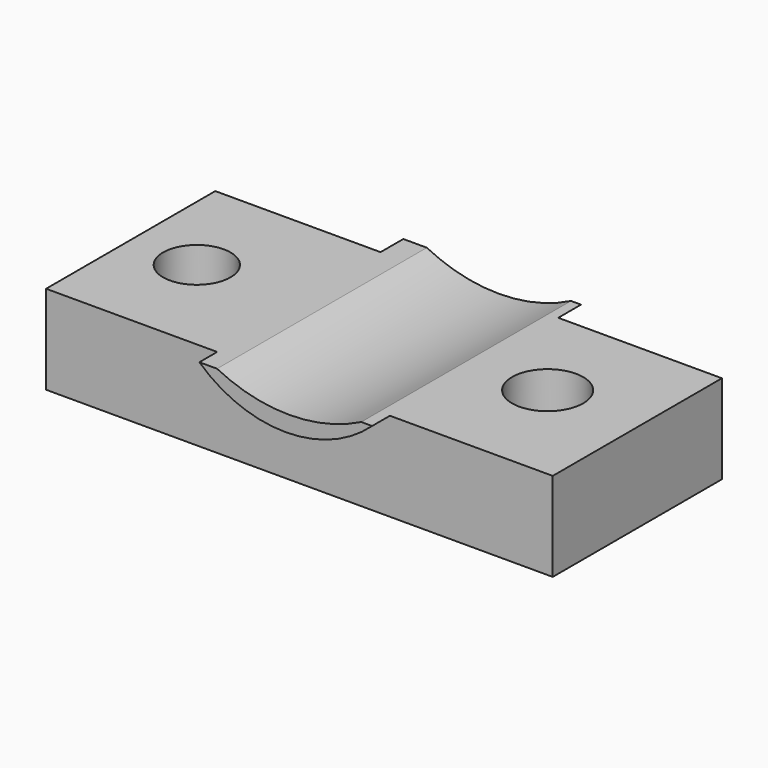
from build123d import *

# Parameters (mm, degrees)
F0_W     = 144.692793
F0_H     = 60.389988
F0_R     = 9.633917
F0_R_2   = 10.164922
F1_DEPTH = 25.4
F3_DEPTH = 61.214
F4_DEPTH = 6.35
F6_DEPTH = 8.128


with BuildPart() as f1:
    # F0 (on Top) → F1 (new body)
    with BuildSketch(Plane.XY):
        with Locations((0.991925, -9.922072)):
            Rectangle(F0_W, F0_H)
        with Locations((-52.305277, -10.124722)):
            Circle(F0_R, mode=Mode.SUBTRACT)
        with Locations((46.588395, -8.503514)):
            Circle(F0_R_2, mode=Mode.SUBTRACT)
    extrude(amount=F1_DEPTH)

    # F2 (on face) → F3 (cut)
    with BuildSketch(Plane.XZ.offset(40.117066)):
        with BuildLine():
            Line((23.738548, 25.4), (-17.442467, 25.4))
            ThreePointArc((-17.442467, 25.4), (3.148041, 20.508191), (23.738548, 25.4))
        make_face()
    extrude(amount=-F3_DEPTH, mode=Mode.SUBTRACT)

    # F2 (on face) → F4 (join)
    with BuildSketch(Plane.XZ.offset(40.117066)):
        with BuildLine():
            ThreePointArc((23.738548, 25.4), (3.148041, 20.508191), (-17.442467, 25.4))
            Line((-17.442467, 25.4), (-22.494383, 25.4))
            ThreePointArc((-22.494383, 25.4), (2.168844, 15.81733), (26.83207, 25.4))
            Line((26.83207, 25.4), (23.738548, 25.4))
        make_face()
    extrude(amount=F4_DEPTH)

    # F5 (on face) → F6 (join)
    with BuildSketch(Plane(origin=(0, 20.272922, 0), x_dir=(-1, 0, 0), z_dir=(0, 1, 0))):
        with BuildLine():
            Line((-23.738548, 25.4), (-26.600901, 25.4))
            ThreePointArc((-26.600901, 25.4), (-1.22531, 15.895824), (24.15028, 25.4))
            Line((24.15028, 25.4), (17.442467, 25.4))
            ThreePointArc((17.442467, 25.4), (-3.148041, 20.508191), (-23.738548, 25.4))
        make_face()
    extrude(amount=F6_DEPTH)


solid = f1.part
